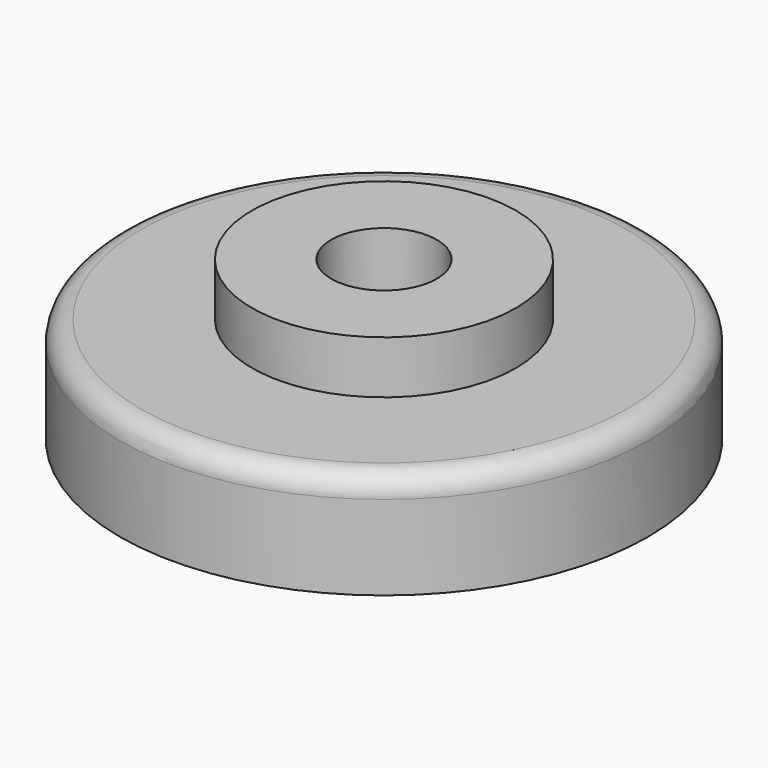
from build123d import *

# Parameters (mm, degrees)
F3_D = 50.8
F4_R = 10.16


with BuildPart() as f1:
    # F0 (on Front) → F1 (revolve)
    with BuildSketch(Plane.XZ):
        Polygon((-58.9493140578, 25.4), (-58.9493140578, -50.8), (68.0506859422, -50.8), (68.0506859422, 0), (4.5506859422, 0), (4.5506859422, 25.4), align=None)
    revolve(axis=Axis((-58.9493140578, 0, -12.7), (0, 0, -1)))

    # F3 (through all)
    with Locations(Plane.XY.offset(25.4)):
        with Locations((-58.9493140578, 0)):
            Hole(F3_D / 2)

    # F4
    f4_edges = [f1.edges().sort_by_distance(p)[0] for p in [
        (-185.949314, 0, 0),
    ]]
    fillet(f4_edges, radius=F4_R)


solid = f1.part
